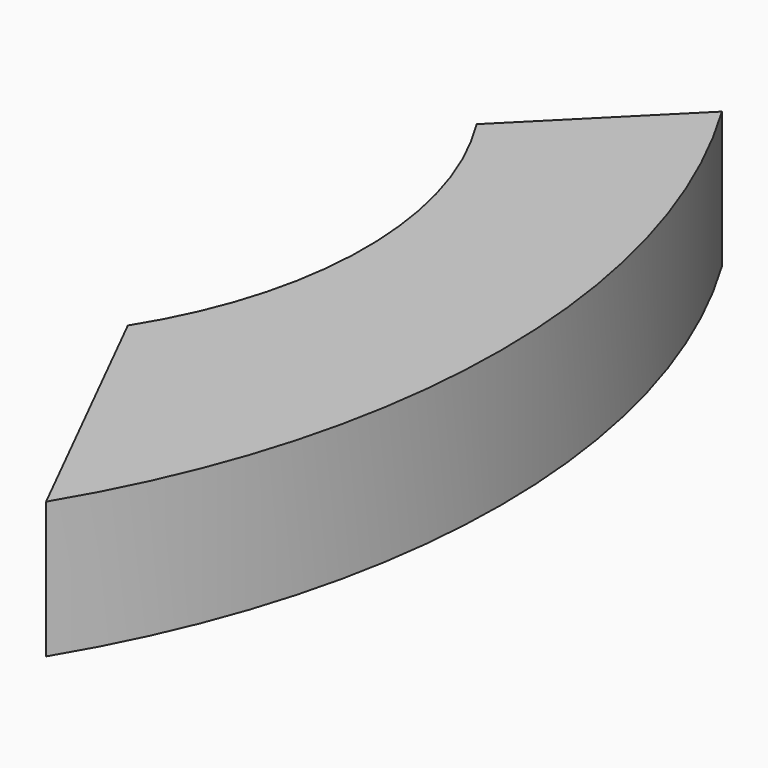
from build123d import *

# Parameters (mm, degrees)
F1_DEPTH = 25.4


with BuildPart() as f1:
    # F0 (on Top) → F1 (new body)
    with BuildSketch(Plane.XY):
        Polygon((75.454312, 0), (50.054312, 0), (75.454312, -50.8), align=None)
        with BuildLine():
            Line((75.454312, 106.68), (75.454312, 0))
            Line((75.454312, 0), (75.454312, -50.8))
            ThreePointArc((75.454312, -50.8), (97.371469, 27.94), (75.454312, 106.68))
        make_face()
        with BuildLine():
            ThreePointArc((50.054312, 81.28), (61.796338, 40.64), (50.054312, 0))
            Line((50.054312, 0), (75.454312, 0))
            Line((75.454312, 0), (75.454312, 106.68))
            Line((75.454312, 106.68), (50.054312, 81.28))
        make_face()
    extrude(amount=F1_DEPTH)


solid = f1.part
